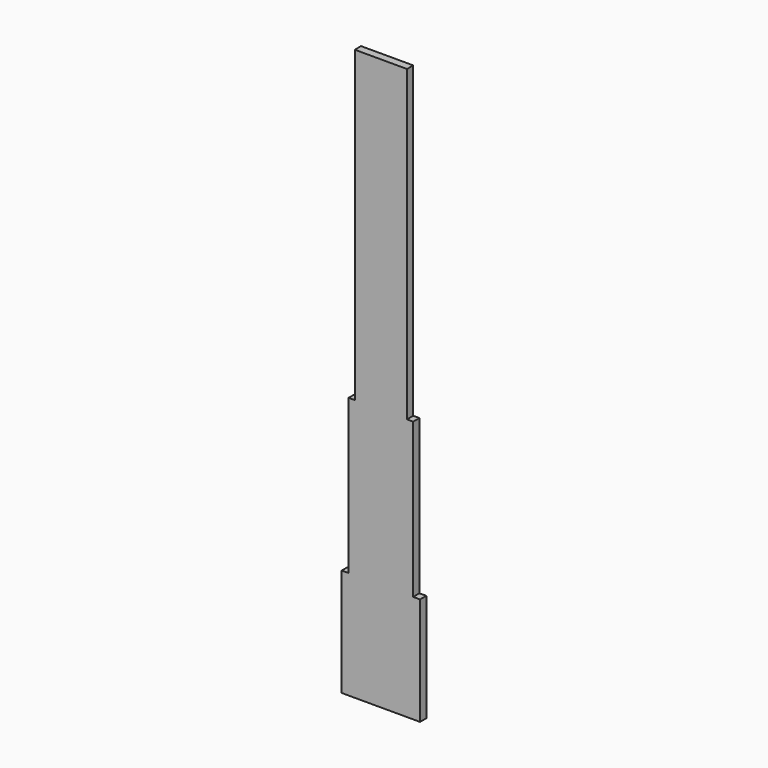
from build123d import *

# Parameters (mm, degrees)
F0_W     = 16.9418
F0_H     = 100.0506
F1_DEPTH = 2.54


with BuildPart() as f1:
    # F0 (on Front) → F1 (new body)
    with BuildSketch(Plane.XZ):
        Polygon((-12.7, 0), (0, 0), (12.7, 0), (12.7, 34.9758), (10.469878, 34.9758), (-10.469878, 34.9758), (-12.7, 34.9758), align=None)
        Polygon((-10.469878, 85.0138), (-10.469878, 34.9758), (10.469878, 34.9758), (10.469878, 85.0138), (8.4709, 85.0138), (-8.4709, 85.0138), align=None)
        with Locations((0, 135.0391)):
            Rectangle(F0_W, F0_H)
    extrude(amount=-F1_DEPTH)


solid = f1.part
